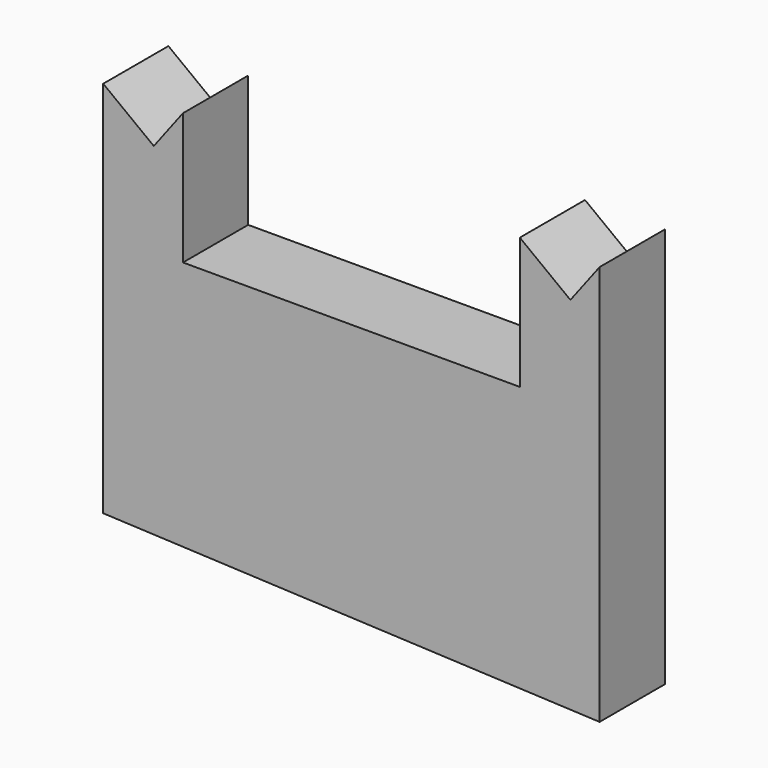
from build123d import *

# Parameters (mm, degrees)
F1_DEPTH = 11.43


with BuildPart() as f1:
    # F0 (on Front) → F1 (new body)
    with BuildSketch(Plane.XZ):
        Polygon((-35.039842, 19.718777), (-42.132925, 25.10952), (-42.132925, -27.946757), (27.504144, -31.067714), (27.504144, 6.6675), (27.504144, 25.10952), (23.40718, 19.718777), (16.314097, 25.10952), (16.314097, 6.6675), (-30.942878, 6.6675), (-30.942878, 25.10952), align=None)
    extrude(amount=-F1_DEPTH)


solid = f1.part
